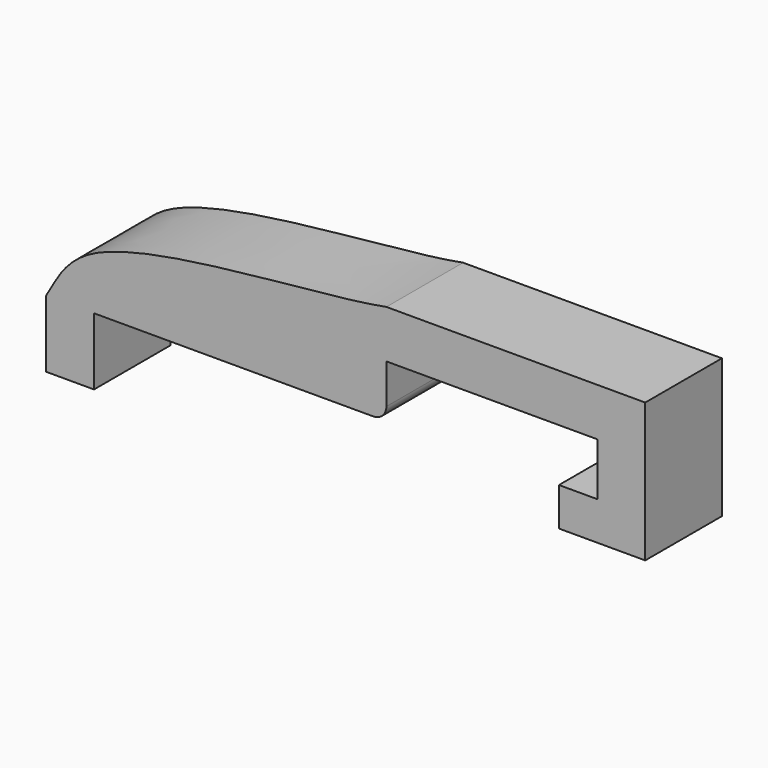
from build123d import *

# Parameters (mm, degrees)
F1_DEPTH = 5.08


with BuildPart() as f1:
    # F0 (on Front) → F1 (new body)
    with BuildSketch(Plane.XZ):
        with BuildLine():
            Line((-0.8884693962, 3.5638500812), (-0.8884693962, 5.6677692773))
            Line((-0.8884693962, 5.6677692773), (10.2875306038, 5.6677692773))
            Line((10.2875306038, 5.6677692773), (10.2875306038, 2.8737692773))
            Line((10.2875306038, 2.8737692773), (8.2555306038, 2.8737692773))
            Line((8.2555306038, 2.8737692773), (8.2555306038, 0.8417692773))
            Line((8.2555306038, 0.8417692773), (12.8275306038, 0.8417692773))
            Line((12.8275306038, 0.8417692773), (12.8275306038, 8.2077692773))
            Line((12.8275306038, 8.2077692773), (-0.8884693962, 8.2077692773))
            add(Edge.make_bspline(
                [(-18.9224693962, 2.8737692773), (-18.3802981984, 3.7233250313), (-17.2128373027, 7.205755464), (-4.6888800099, 7.4805894795), (-0.8884693962, 8.2077692773)],
                knots=[0, 0, 0, 0, 0.3290408858, 1, 1, 1, 1], degree=3))
            Line((-18.9224693962, 2.8737692773), (-18.9224693962, -0.6822307227))
            Line((-18.9224693962, -0.6822307227), (-16.3824693962, -0.6822307227))
            Line((-16.3824693962, -0.6822307227), (-16.3824693962, 2.8737692773))
            Line((-16.3824693962, 2.8737692773), (-1.5785502001, 2.8737692773))
            ThreePointArc((-1.5785502001, 2.8737692773), (-1.0905893841, 3.0758892652), (-0.8884693962, 3.5638500812))
        make_face()
    extrude(amount=F1_DEPTH)


solid = f1.part
